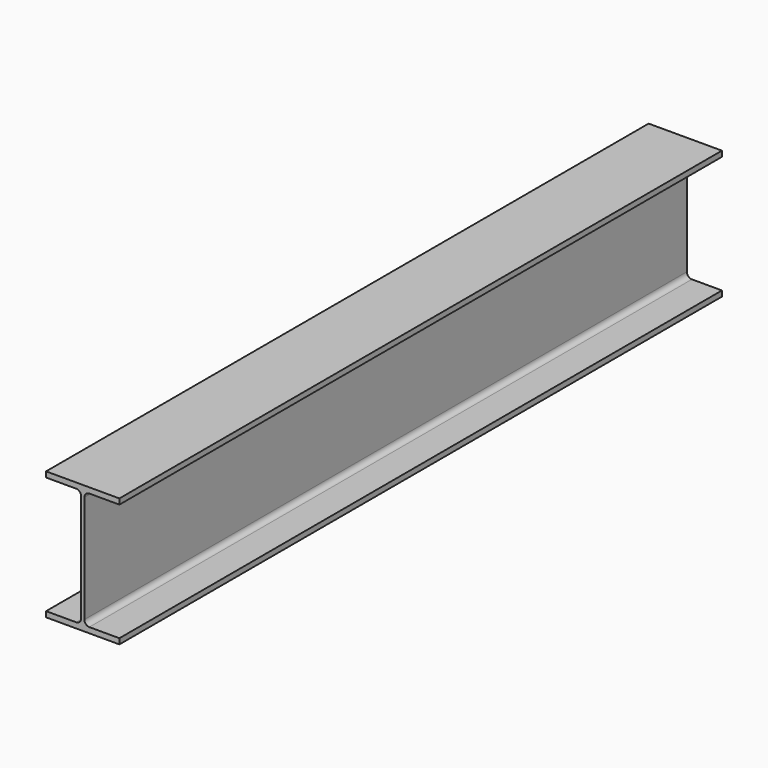
from build123d import *

# Parameters (mm, degrees)
F1_DEPTH = 1500


with BuildPart() as f1:
    # F0 (on Front) → F1 (new body)
    with BuildSketch(Plane.XZ):
        with BuildLine():
            Line((73, 108.31944), (0, 108.31944))
            Line((0, 108.31944), (-73, 108.31944))
            Line((-73, 108.31944), (-73, 97.41944))
            Line((-73, 97.41944), (-13.2, 97.41944))
            ThreePointArc((-13.2, 97.41944), (-6.128932, 94.490508), (-3.2, 87.41944))
            Line((-3.2, 87.41944), (-3.2, -126.78056))
            ThreePointArc((-3.2, -126.78056), (-6.128932, -133.851628), (-13.2, -136.78056))
            Line((-13.2, -136.78056), (-73, -136.78056))
            Line((-73, -136.78056), (-73, -147.68056))
            Line((-73, -147.68056), (0, -147.68056))
            Line((0, -147.68056), (73, -147.68056))
            Line((73, -147.68056), (73, -136.78056))
            Line((73, -136.78056), (13.2, -136.78056))
            ThreePointArc((13.2, -136.78056), (6.128932, -133.851628), (3.2, -126.78056))
            Line((3.2, -126.78056), (3.2, 87.41944))
            ThreePointArc((3.2, 87.41944), (6.128932, 94.490508), (13.2, 97.41944))
            Line((13.2, 97.41944), (73, 97.41944))
            Line((73, 97.41944), (73, 108.31944))
        make_face()
    extrude(amount=-F1_DEPTH)


solid = f1.part
